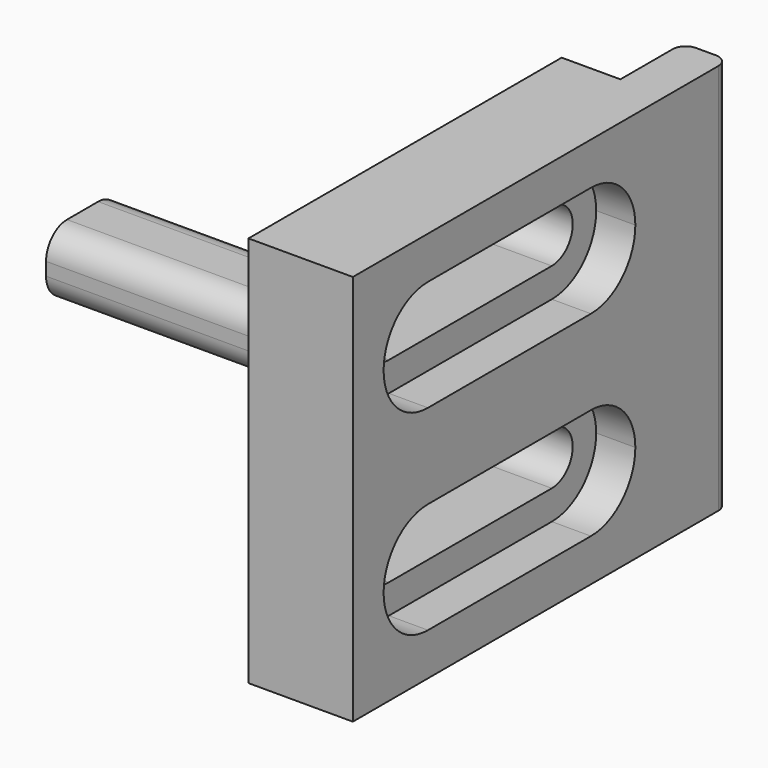
from build123d import *

# Parameters (mm, degrees)
F1_DEPTH = 30
F3_DEPTH = 8.001
F4_R     = 1
F6_DEPTH = 3
F8_DEPTH = 25
F9_R     = 2


with BuildPart() as f1:
    # F0 (on Top) → F1 (new body)
    with BuildSketch(Plane.XY):
        Polygon((8, 0), (8, 36), (4.5, 36), (4.5, 30), (0, 30), (0, 0), align=None)
    extrude(amount=F1_DEPTH)

    # F2 (on face) → F3 (cut, through all)
    with BuildSketch(Plane(origin=(0, 0, 0), x_dir=(0, -1, 0), z_dir=(-1, 0, 0))):
        with BuildLine():
            ThreePointArc((-7.194215, 20.5), (-5.780001, 21.085786), (-5.194215, 22.5))
            ThreePointArc((-5.194215, 22.5), (-5.780001, 23.914214), (-7.194215, 24.5))
            ThreePointArc((-7.194215, 24.5), (-9.194215, 22.5), (-7.194215, 20.5))
        make_face()
        with BuildLine():
            ThreePointArc((-7.194215, 20.5), (-9.194215, 22.5), (-7.194215, 24.5))
            Line((-7.194215, 24.5), (-15, 24.5))
            Line((-15, 24.5), (-22.805785, 24.5))
            ThreePointArc((-22.805785, 24.5), (-21.391572, 23.914214), (-20.805785, 22.5))
            ThreePointArc((-20.805785, 22.5), (-21.391572, 21.085786), (-22.805785, 20.5))
            Line((-22.805785, 20.5), (-15, 20.5))
            Line((-15, 20.5), (-7.194215, 20.5))
        make_face()
        with BuildLine():
            ThreePointArc((-20.805785, 22.5), (-21.391572, 23.914214), (-22.805785, 24.5))
            ThreePointArc((-22.805785, 24.5), (-24.805785, 22.5), (-22.805785, 20.5))
            ThreePointArc((-22.805785, 20.5), (-21.391572, 21.085786), (-20.805785, 22.5))
        make_face()
        with BuildLine():
            ThreePointArc((-7.194215, 5.5), (-5.780001, 6.085786), (-5.194215, 7.5))
            ThreePointArc((-5.194215, 7.5), (-5.780001, 8.914214), (-7.194215, 9.5))
            ThreePointArc((-7.194215, 9.5), (-9.194215, 7.5), (-7.194215, 5.5))
        make_face()
        with BuildLine():
            ThreePointArc((-7.194215, 5.5), (-9.194215, 7.5), (-7.194215, 9.5))
            Line((-7.194215, 9.5), (-15, 9.5))
            Line((-15, 9.5), (-22.805785, 9.5))
            ThreePointArc((-22.805785, 9.5), (-21.391572, 8.914214), (-20.805785, 7.5))
            ThreePointArc((-20.805785, 7.5), (-21.391572, 6.085786), (-22.805785, 5.5))
            Line((-22.805785, 5.5), (-15, 5.5))
            Line((-15, 5.5), (-7.194215, 5.5))
        make_face()
        with BuildLine():
            ThreePointArc((-20.805785, 7.5), (-21.391572, 8.914214), (-22.805785, 9.5))
            ThreePointArc((-22.805785, 9.5), (-24.805785, 7.5), (-22.805785, 5.5))
            ThreePointArc((-22.805785, 5.5), (-21.391572, 6.085786), (-20.805785, 7.5))
        make_face()
    extrude(amount=-F3_DEPTH, mode=Mode.SUBTRACT)

    # F4
    f4_edges = [f1.edges().sort_by_distance(p)[0] for p in [
        (4.5, 36, 15),
        (8, 36, 15),
    ]]
    fillet(f4_edges, radius=F4_R)

    # F5 (on face) → F6 (cut)
    with BuildSketch(Plane.YZ.offset(8)):
        with BuildLine():
            ThreePointArc((7.194215, 18.25), (10.199419, 19.494796), (11.444215, 22.5))
            ThreePointArc((11.444215, 22.5), (10.199419, 25.505204), (7.194215, 26.75))
            ThreePointArc((7.194215, 26.75), (2.944215, 22.5), (7.194215, 18.25))
        make_face()
        with BuildLine():
            ThreePointArc((7.194215, 26.75), (10.199419, 25.505204), (11.444215, 22.5))
            ThreePointArc((11.444215, 22.5), (10.199419, 19.494796), (7.194215, 18.25))
            Line((7.194215, 18.25), (22.805785, 18.25))
            ThreePointArc((22.805785, 18.25), (18.555785, 22.5), (22.805785, 26.75))
            Line((22.805785, 26.75), (7.194215, 26.75))
        make_face()
        with BuildLine():
            ThreePointArc((27.055785, 22.5), (25.810989, 25.505204), (22.805785, 26.75))
            ThreePointArc((22.805785, 26.75), (18.555785, 22.5), (22.805785, 18.25))
            ThreePointArc((22.805785, 18.25), (25.810989, 19.494796), (27.055785, 22.5))
        make_face()
        with BuildLine():
            ThreePointArc((7.194215, 3.25), (10.199419, 4.494796), (11.444215, 7.5))
            ThreePointArc((11.444215, 7.5), (10.199419, 10.505204), (7.194215, 11.75))
            ThreePointArc((7.194215, 11.75), (2.944215, 7.5), (7.194215, 3.25))
        make_face()
        with BuildLine():
            ThreePointArc((7.194215, 11.75), (10.199419, 10.505204), (11.444215, 7.5))
            ThreePointArc((11.444215, 7.5), (10.199419, 4.494796), (7.194215, 3.25))
            Line((7.194215, 3.25), (22.805785, 3.25))
            ThreePointArc((22.805785, 3.25), (18.555785, 7.5), (22.805785, 11.75))
            Line((22.805785, 11.75), (7.194215, 11.75))
        make_face()
        with BuildLine():
            ThreePointArc((27.055785, 7.5), (25.810989, 10.505204), (22.805785, 11.75))
            ThreePointArc((22.805785, 11.75), (18.555785, 7.5), (22.805785, 3.25))
            ThreePointArc((22.805785, 3.25), (25.810989, 4.494796), (27.055785, 7.5))
        make_face()
    extrude(amount=-F6_DEPTH, mode=Mode.SUBTRACT)

    # F7 (on face) → F8 (join)
    with BuildSketch(Plane(origin=(0, 0, 0), x_dir=(0, -1, 0), z_dir=(-1, 0, 0))):
        Polygon((-18.8505, 12.5), (-11.865322, 12.5), (-11.865322, 15), (-11.865322, 17.5), (-18.8505, 17.5), (-18.8505, 15), align=None)
    extrude(amount=F8_DEPTH)

    # F9
    f9_edges = [f1.edges().sort_by_distance(p)[0] for p in [
        (0, 18.8505, 15),
        (0, 15.357911, 17.5),
        (0, 15.357911, 12.5),
        (0, 11.865322, 15),
        (-12.5, 11.865322, 12.5),
        (-12.5, 11.865322, 17.5),
        (-12.5, 18.8505, 12.5),
        (-12.5, 18.8505, 17.5),
    ]]
    fillet(f9_edges, radius=F9_R)


solid = f1.part
